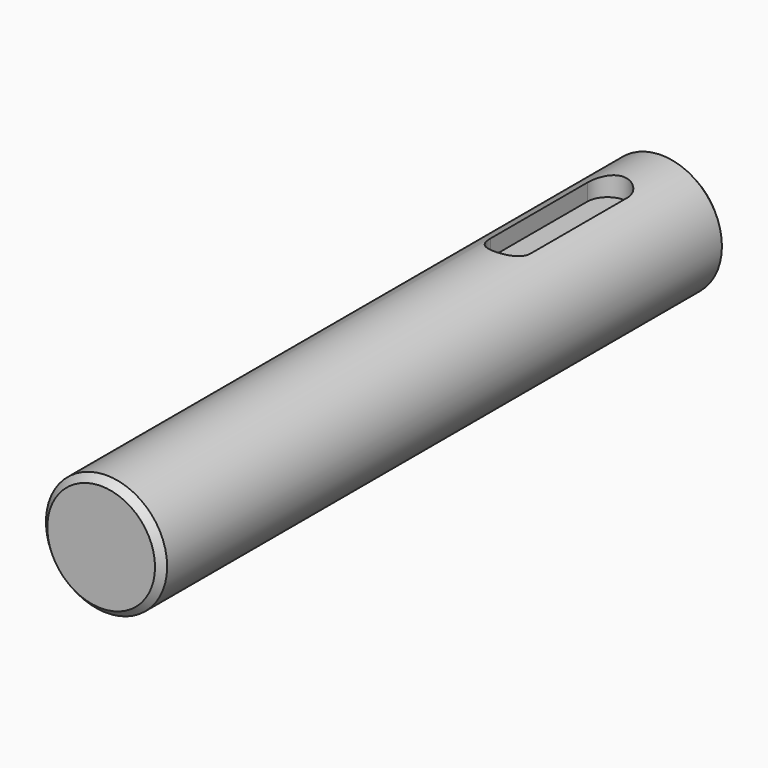
from build123d import *

# Parameters (mm, degrees)
F0_R     = 9
F1_DEPTH = 105
F2_SIZE  = 1
F5_DEPTH = 25


with BuildPart() as f1:
    # F0 (on Front) → F1 (new body)
    with BuildSketch(Plane.XZ):
        Circle(F0_R)
    extrude(amount=F1_DEPTH)

    # F2
    f2_edges = [f1.edges().sort_by_distance(p)[0] for p in [
        (9, -52.5, 0),
        (-9, 0, 0),
        (-9, -105, 0),
    ]]
    chamfer(f2_edges, length=F2_SIZE)

    # F4 (on offset) → F5 (cut)
    with BuildSketch(Plane.XY.offset(6)):
        with BuildLine():
            Line((3, -29), (3, -11))
            ThreePointArc((3, -11), (0, -8), (-3, -11))
            Line((-3, -11), (-3, -29))
            ThreePointArc((-3, -29), (0, -32), (3, -29))
        make_face()
    extrude(amount=F5_DEPTH, mode=Mode.SUBTRACT)


solid = f1.part
